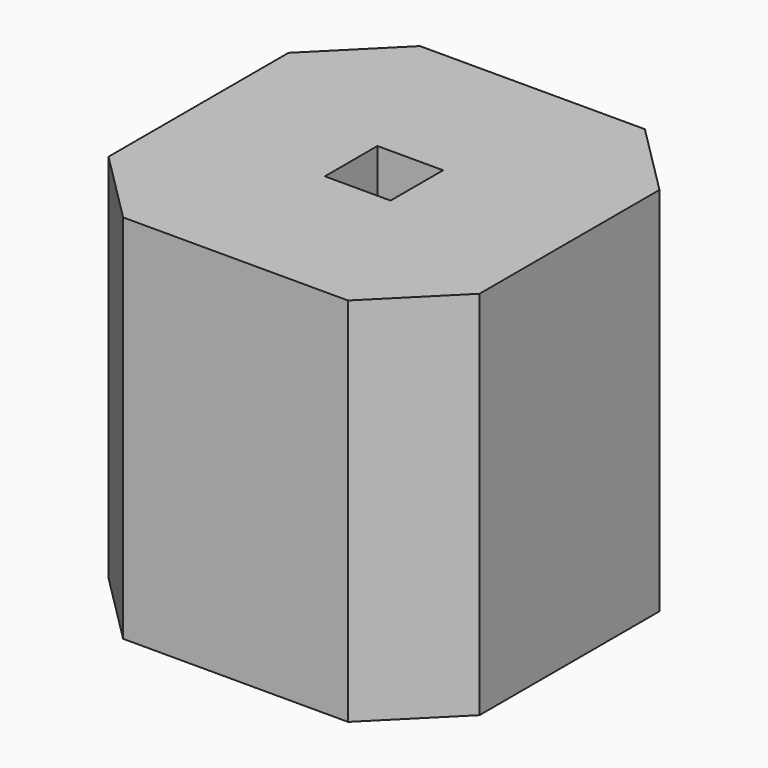
from build123d import *

# Parameters (mm, degrees)
F0_W     = 0.45
F0_H     = 0.45
F1_DEPTH = 2.54


with BuildPart() as f1:
    # F0 (on Top) → F1 (new body)
    with BuildSketch(Plane.XY):
        Polygon((0.77, 1.27), (0, 1.27), (-0.77, 1.27), (-1.27, 0.77), (-1.27, 0), (-1.27, -0.77), (-0.77, -1.27), (0, -1.27), (0.77, -1.27), (1.27, -0.77), (1.27, 0), (1.27, 0.77), align=None)
        Rectangle(F0_W, F0_H, mode=Mode.SUBTRACT)
    extrude(amount=F1_DEPTH)


solid = f1.part
